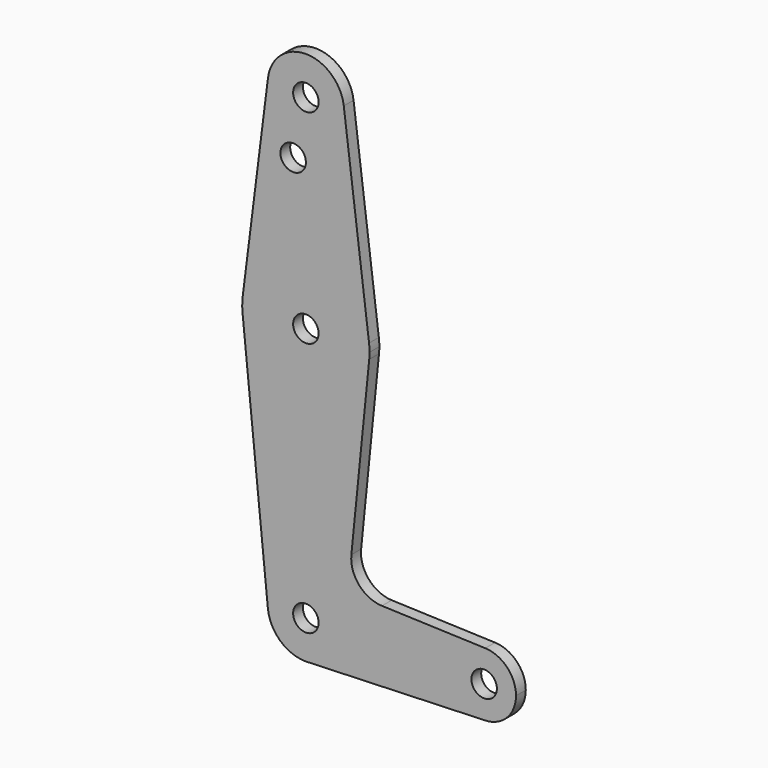
from build123d import *

# Parameters (mm, degrees)
F0_R     = 1.25
F1_DEPTH = 1.2


with BuildPart() as f1:
    # F0 (on Front) → F1 (new body)
    with BuildSketch(Plane.XZ):
        with BuildLine():
            ThreePointArc((-3.731203, -0.375), (-0.187735, 3.745298), (3.75, 0))
            ThreePointArc((3.75, 0), (2.744602, -2.555319), (0.267516, -3.740446))
            Line((0.267516, -3.740446), (17.5, -3.125))
            ThreePointArc((17.5, -3.125), (14.375498, 0.055812), (17.611607, 3.123006))
            Line((17.611607, 3.123006), (7.467559, 3.485525))
            ThreePointArc((7.467559, 3.485525), (5.220945, 4.555653), (4.465034, 6.926528))
            Line((4.465034, 6.926528), (6.218671, 24.375))
            ThreePointArc((6.218671, 24.375), (0, 18.75), (-6.218671, 24.375))
            Line((-6.218671, 24.375), (-3.731203, -0.375))
        make_face()
        with BuildLine():
            Line((-3.720588, 45.46875), (-6.20098, 25.78125))
            ThreePointArc((-6.20098, 25.78125), (0, 31.25), (6.20098, 25.78125))
            Line((6.20098, 25.78125), (3.720588, 45.46875))
            ThreePointArc((3.720588, 45.46875), (3.74264, 45.234836), (3.75, 45))
            ThreePointArc((3.75, 45), (-0.234836, 41.25736), (-3.720588, 45.46875))
        make_face()
        with Locations((-1.25, 39.38)):
            Circle(F0_R, mode=Mode.SUBTRACT)
        with BuildLine():
            ThreePointArc((-6.20098, 25.78125), (-6.249505, 25.078624), (-6.218671, 24.375))
            ThreePointArc((-6.218671, 24.375), (0, 18.75), (6.218671, 24.375))
            ThreePointArc((6.218671, 24.375), (6.242163, 24.687108), (6.25, 25))
            ThreePointArc((6.25, 25), (6.237733, 25.391393), (6.20098, 25.78125))
            ThreePointArc((6.20098, 25.78125), (0, 31.25), (-6.20098, 25.78125))
        make_face()
        with Locations((0, 25)):
            Circle(F0_R, mode=Mode.SUBTRACT)
        with BuildLine():
            ThreePointArc((3.720588, 45.46875), (0, 48.75), (-3.720588, 45.46875))
            ThreePointArc((-3.720588, 45.46875), (-0.234836, 41.25736), (3.75, 45))
            ThreePointArc((3.75, 45), (3.74264, 45.234836), (3.720588, 45.46875))
        make_face()
        with Locations((0, 45)):
            Circle(F0_R, mode=Mode.SUBTRACT)
        with BuildLine():
            ThreePointArc((0.267516, -3.740446), (2.744602, -2.555319), (3.75, 0))
            ThreePointArc((3.75, 0), (-0.187735, 3.745298), (-3.731203, -0.375))
            ThreePointArc((-3.731203, -0.375), (-2.515576, -2.781074), (0, -3.75))
            Line((0, -3.75), (0.267516, -3.740446))
        make_face()
        Circle(F0_R, mode=Mode.SUBTRACT)
        with BuildLine():
            ThreePointArc((17.611607, 3.123006), (14.375498, 0.055812), (17.5, -3.125))
            ThreePointArc((17.5, -3.125), (19.709709, -2.209709), (20.625, 0))
            ThreePointArc((20.625, 0), (19.748822, 2.169891), (17.611607, 3.123006))
        make_face()
        with Locations((17.5, 0)):
            Circle(F0_R, mode=Mode.SUBTRACT)
    extrude(amount=F1_DEPTH)


solid = f1.part
